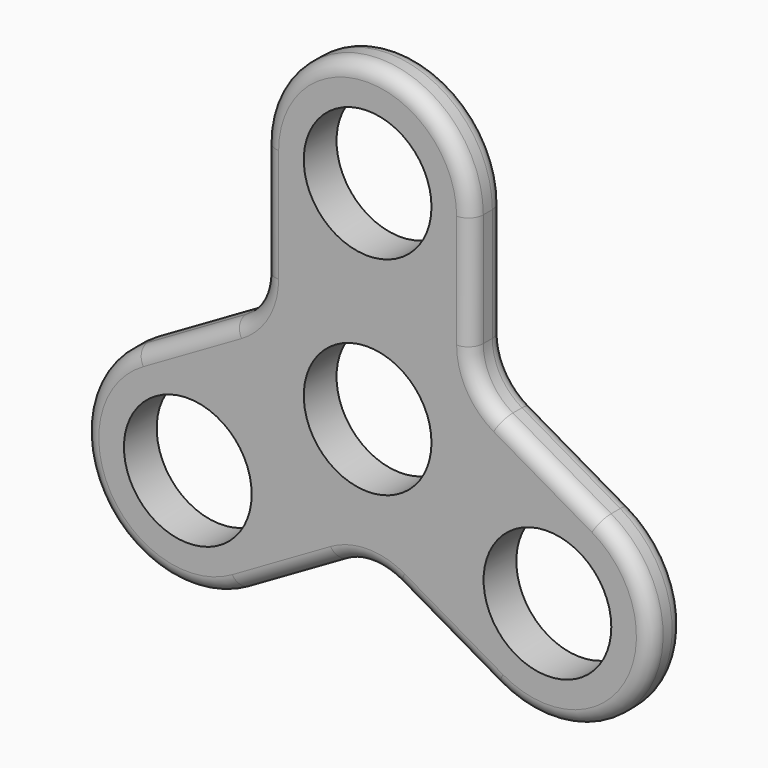
from build123d import *

# Parameters (mm, degrees)
F0_R     = 10.936503
F1_DEPTH = 7.0104
F2_R     = 10.16
F3_R     = 2.54


with BuildPart() as f1:
    # F0 (on Front) → F1 (new body)
    with BuildSketch(Plane.XZ):
        with BuildLine():
            Line((-17.78, 35.56), (-17.78, 10.265288))
            Line((-17.78, 10.265288), (-39.685863, -2.382068))
            ThreePointArc((-39.685863, -2.382068), (-46.193795, -26.67), (-21.905863, -33.177932))
            Line((-21.905863, -33.177932), (0, -20.530576))
            Line((0, -20.530576), (21.905863, -33.177932))
            ThreePointArc((21.905863, -33.177932), (46.193795, -26.67), (39.685863, -2.382068))
            Line((39.685863, -2.382068), (17.78, 10.265288))
            Line((17.78, 10.265288), (17.78, 35.56))
            ThreePointArc((17.78, 35.56), (0, 53.34), (-17.78, 35.56))
        make_face()
        with Locations((-30.795863, -17.78)):
            Circle(F0_R, mode=Mode.SUBTRACT)
        with Locations((30.795863, -17.78)):
            Circle(F0_R, mode=Mode.SUBTRACT)
        Circle(F0_R, mode=Mode.SUBTRACT)
        with Locations((0, 35.56)):
            Circle(F0_R, mode=Mode.SUBTRACT)
    extrude(amount=F1_DEPTH)

    # F2
    f2_edges = [f1.edges().sort_by_distance(p)[0] for p in [
        (17.78, -3.5052, 10.265288),
        (-17.78, -3.5052, 10.265288),
        (0, -3.5052, -20.530576),
    ]]
    fillet(f2_edges, radius=F2_R)

    # F3
    f3_edges = [f1.edges().sort_by_distance(p)[0] for p in [
        (-17.78, -7.0104, 25.845583),
        (-17.78, 0, 25.845583),
    ]]
    fillet(f3_edges, radius=F3_R)


solid = f1.part
